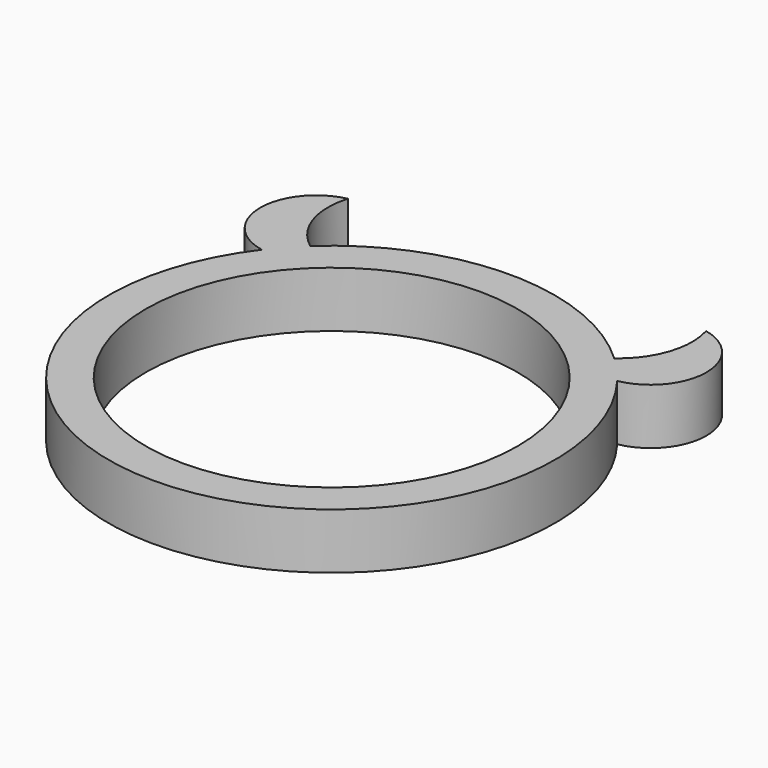
from build123d import *

# Parameters (mm, degrees)
CYLINDER003_R     = 4
CYLINDER003_DEPTH = 10
CYLINDER002_R     = 3
CYLINDER002_DEPTH = 3
CYLINDER001_R     = 10
CYLINDER001_DEPTH = 10
CYLINDER_R        = 12
CYLINDER_DEPTH    = 3


with BuildPart() as cilindro003:
    # Cylinder003 → Cylinder003 (new body)
    with BuildSketch(Plane(origin=(3.2, 1.8, 0), x_dir=(1, 0, 0), z_dir=(0, 0, 1))):
        Circle(CYLINDER003_R)
    extrude(amount=CYLINDER003_DEPTH)


with BuildPart() as cut001:
    # Cylinder002 → Cylinder002 (new body)
    with BuildSketch(Plane.XY):
        Circle(CYLINDER002_R)
    extrude(amount=CYLINDER002_DEPTH)

    # Cut001: cut Cilindro003
    add(cilindro003.part, mode=Mode.SUBTRACT)


with BuildPart() as cut001_1:
    # Cut001 placement: moved
    add(cut001.part.moved(Location((-9, 10.2, 0))))


with BuildPart() as fusion:
    # Part__Mirroring: instance of Cut001
    add(cut001_1.part.mirror(Plane(origin=(0, 0, 0), x_dir=(0, -1, 0), z_dir=(1, 0, 0))))

    # Fusion: union Cut001
    add(cut001_1.part)


with BuildPart() as cilindro001:
    # Cylinder001 → Cylinder001 (new body)
    with BuildSketch(Plane.XY.offset(-4)):
        Circle(CYLINDER001_R)
    extrude(amount=CYLINDER001_DEPTH)


with BuildPart() as fusion001:
    # Cylinder → Cylinder (new body)
    with BuildSketch(Plane.XY):
        Circle(CYLINDER_R)
    extrude(amount=CYLINDER_DEPTH)

    # Cut: cut Cilindro001
    add(cilindro001.part, mode=Mode.SUBTRACT)

    # Fusion001: union Fusion
    add(fusion.part)


solid = fusion001.part
